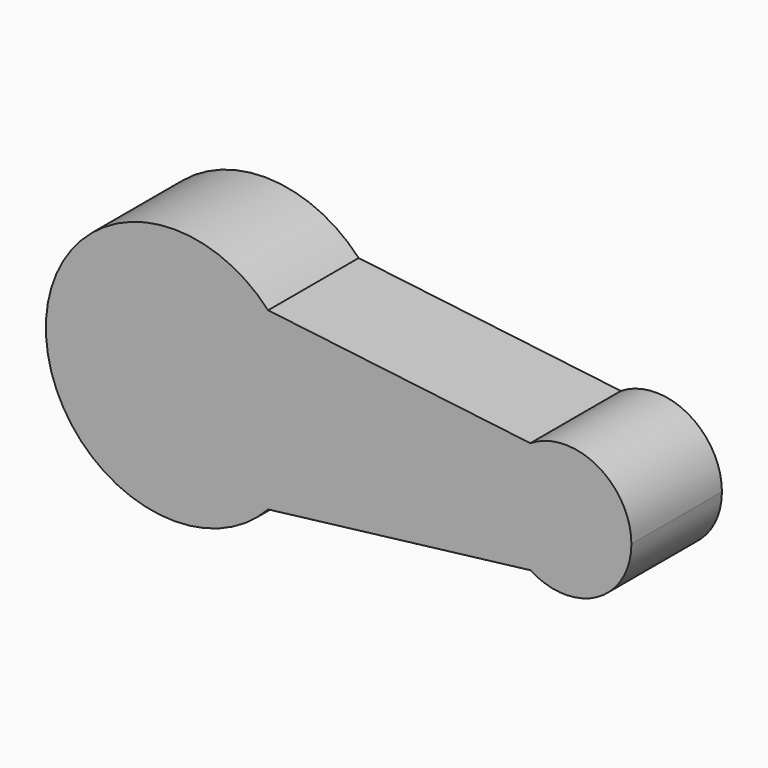
from build123d import *

# Parameters (mm, degrees)
F1_DEPTH = 12.7


with BuildPart() as f1:
    # F0 (on Front) → F1 (new body, symmetric)
    with BuildSketch(Plane.XZ):
        with BuildLine():
            ThreePointArc((-18.237302, -19.674743), (-12.488315, -10.574656), (-10.47857, 0))
            ThreePointArc((-10.47857, 0), (-12.488315, 10.574656), (-18.237302, 19.674743))
            ThreePointArc((-18.237302, 19.674743), (-68.128892, 0), (-18.237302, -19.674743))
        make_face()
        with BuildLine():
            ThreePointArc((-18.237302, 19.674743), (-12.488315, 10.574656), (-10.47857, 0))
            ThreePointArc((-10.47857, 0), (-12.488315, -10.574656), (-18.237302, -19.674743))
            Line((-18.237302, -19.674743), (40.605832, -12.550029))
            ThreePointArc((40.605832, -12.550029), (33.664157, 0), (40.605832, 12.550029))
            Line((40.605832, 12.550029), (-18.237302, 19.674743))
        make_face()
        with BuildLine():
            ThreePointArc((63.295345, 0), (55.650701, 12.96454), (40.605832, 12.550029))
            ThreePointArc((40.605832, 12.550029), (33.664157, 0), (40.605832, -12.550029))
            ThreePointArc((40.605832, -12.550029), (55.650701, -12.96454), (63.295345, 0))
        make_face()
    extrude(amount=F1_DEPTH, both=True)


solid = f1.part
